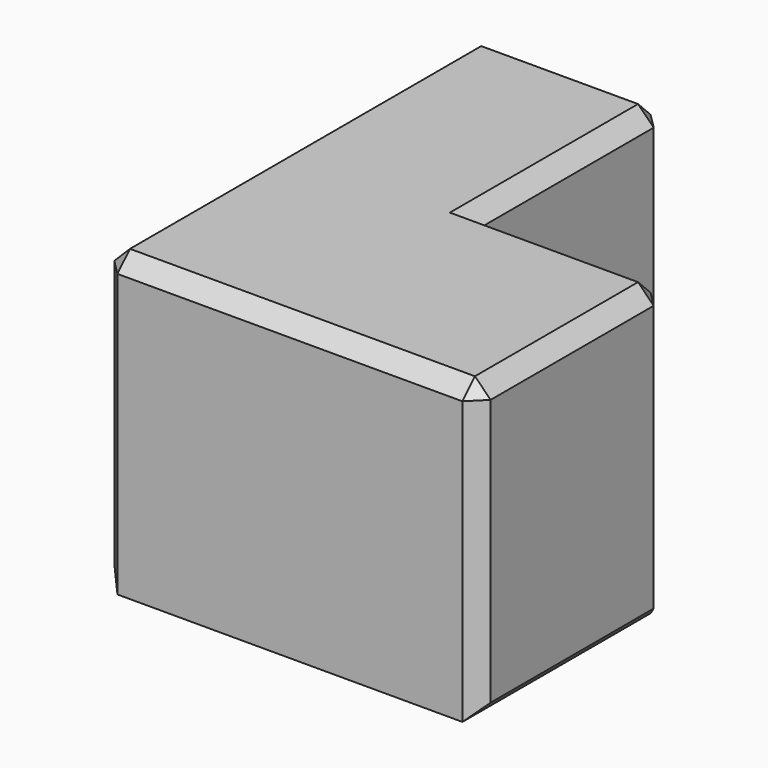
from build123d import *

# Parameters (mm, degrees)
F1_DEPTH = 19
F2_SIZE  = 1


with BuildPart() as f1:
    # F0 (on Top) → F1 (new body)
    with BuildSketch(Plane.XY):
        Polygon((0, 15), (-12, 15), (-12, -15), (12, -15), (12, 0), (0, 0), align=None)
    extrude(amount=F1_DEPTH)

    # F2
    f2_edges = [f1.edges().sort_by_distance(p)[0] for p in [
        (0, 15, 9.5),
        (-6, 15, 19),
        (-12, 0, 19),
        (0, -15, 19),
        (12, -7.5, 19),
        (6, 0, 19),
        (0, 7.5, 19),
        (12, -15, 9.5),
        (12, 0, 9.5),
        (12, -7.5, 0),
        (0, 7.5, 0),
        (-6, 15, 0),
        (-12, 15, 9.5),
        (-12, -15, 9.5),
        (-12, 0, 0),
    ]]
    chamfer(f2_edges, length=F2_SIZE)


solid = f1.part
